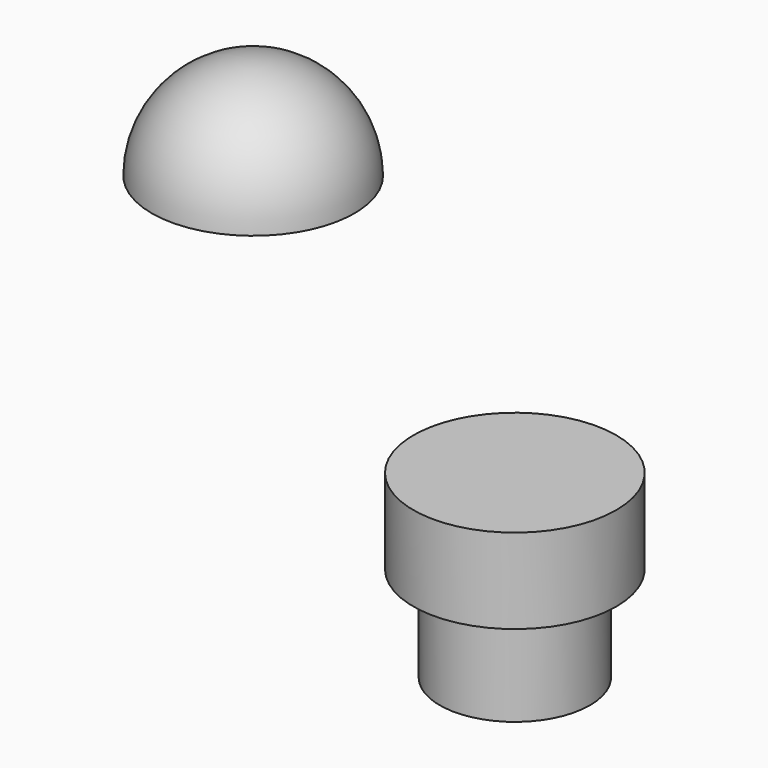
from build123d import *

# Parameters (mm, degrees)
F0_R     = 10
F1_DEPTH = 12.7
F2_R     = 10
F3_DEPTH = 11.3
F2_R_2   = 13.5
F4_DEPTH = 11.3


with BuildPart() as f1:
    # F0 (on Top) → F1 (new body)
    with BuildSketch(Plane.XY):
        Circle(F0_R)
    extrude(amount=F1_DEPTH)

    # F2 (on face) → F3 (join)
    with BuildSketch(Plane.XY.offset(12.7)):
        Circle(F2_R)
    extrude(amount=F3_DEPTH)

    # F2 (on face) → F4 (join, through all)
    with BuildSketch(Plane.XY.offset(12.7)):
        Circle(F2_R_2)
        Circle(F2_R, mode=Mode.SUBTRACT)
    extrude(amount=F4_DEPTH)


with BuildPart() as f7:
    # F6 (on Front) → F7 (revolve)
    with BuildSketch(Plane.XZ):
        with BuildLine():
            Line((-48.3260623291, 47.4496902898), (-34.8260623291, 47.4496902898))
            Line((-34.8260623291, 47.4496902898), (-34.8260623291, 60.9496902898))
            ThreePointArc((-34.8260623291, 60.9496902898), (-44.3720038751, 56.9956318358), (-48.3260623291, 47.4496902898))
        make_face()
    revolve(axis=Axis((-34.8260623291, 0, 54.1996902898), (0, 0, 1)))


solid = Compound([f1.part, f7.part])
